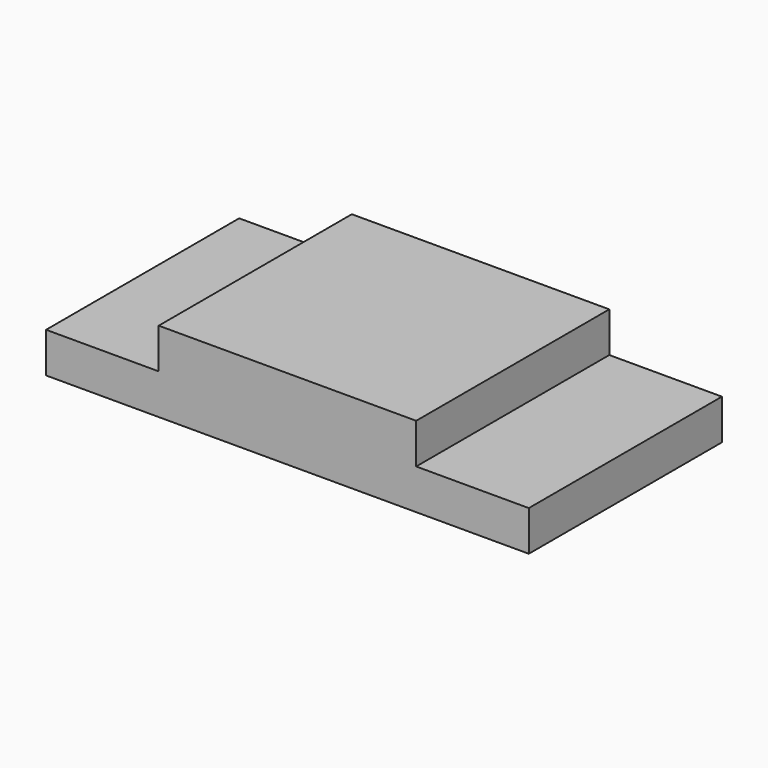
from build123d import *

# Parameters (mm, degrees)
F0_W     = 150
F0_H     = 75
F1_DEPTH = 25
F2_W     = 35
F2_H     = 75
F3_DEPTH = 12.5


with BuildPart() as f1:
    # F0 (on Top) → F1 (new body)
    with BuildSketch(Plane.XY):
        Rectangle(F0_W, F0_H)
    extrude(amount=F1_DEPTH)

    # F2 (on face) → F3 (cut)
    with BuildSketch(Plane.XY.offset(25)):
        with Locations((-57.5, 0)):
            Rectangle(F2_W, F2_H)
        with Locations((57.5, 0)):
            Rectangle(F2_W, F2_H)
    extrude(amount=-F3_DEPTH, mode=Mode.SUBTRACT)


solid = f1.part
